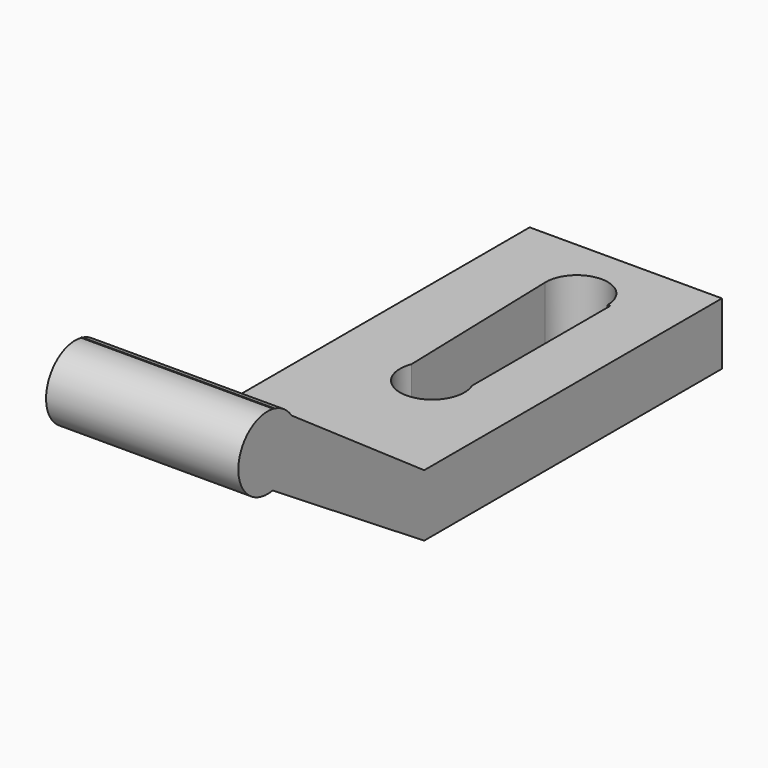
from build123d import *

# Parameters (mm, degrees)
F1_DEPTH = 62
F2_R     = 11.7474696308
F3_DEPTH = 62
F5_DEPTH = 62
F6_R     = 10.330572445
F7_DEPTH = 62


with BuildPart() as f1:
    # F0 (on Right) → F1 (new body)
    with BuildSketch(Plane.YZ):
        Polygon((72.0315793902, 5.5999404844), (-47.9684206098, 5.5999404844), (-47.9684206098, -14.4000595156), (72.0315793902, -14.4000595156), (72.0315793902, -4.4000595156), align=None)
        Polygon((-47.9684206098, -14.4000595156), (-47.9684206098, 5.5999404844), (-108.6771392604, 47.9136673329), (-116.9353204182, 29.6982221294), align=None)
    extrude(amount=F1_DEPTH)

    # F2 (on Right) → F3 (join)
    with BuildSketch(Plane.YZ):
        with Locations((-111.1419275403, 36.2391285598)):
            Circle(F2_R)
    extrude(amount=F3_DEPTH)

    # F4 (on face) → F5 (cut)
    with BuildSketch(Plane.XY.offset(5.5999404844)):
        with BuildLine():
            ThreePointArc((21.8113110218, 51.0349926195), (31.9204424494, 41.3457998855), (41.7515892409, 51.316935569))
            ThreePointArc((41.7515892409, 51.316935569), (31.6384713179, 61.2880712526), (21.8113110218, 51.0349926195))
        make_face()
        with BuildLine():
            Line((42.6100902259, 51.316935569), (41.7515892409, 51.316935569))
            ThreePointArc((41.7515892409, 51.316935569), (31.9204424494, 41.3457998855), (21.8113110218, 51.0349926195))
            Line((21.8113110218, 51.0349926195), (23.3906661796, -4.8034051943))
            ThreePointArc((23.3906661796, -4.8034051943), (32.9119310697, 1.8000949809), (42.6100902259, -4.540757379))
            Line((42.6100902259, -4.540757379), (42.6100902259, 51.316935569))
        make_face()
        with BuildLine():
            ThreePointArc((43.4248242139, -8.5701132193), (43.2191003354, -6.5146631494), (42.6100902259, -4.540757379))
            Line((42.6100902259, -4.540757379), (42.6100902259, -8.5701132193))
            Line((42.6100902259, -8.5701132193), (23.4972052276, -8.5701132193))
            Line((23.4972052276, -8.5701132193), (23.3906661796, -4.8034051943))
            ThreePointArc((23.3906661796, -4.8034051943), (31.1372951092, -18.7627033893), (43.4248242139, -8.5701132193))
        make_face()
        with BuildLine():
            Line((42.6100902259, -8.5701132193), (42.6100902259, -4.540757379))
            ThreePointArc((42.6100902259, -4.540757379), (32.9119310697, 1.8000949809), (23.3906661796, -4.8034051943))
            Line((23.3906661796, -4.8034051943), (23.4972052276, -8.5701132193))
            Line((23.4972052276, -8.5701132193), (42.6100902259, -8.5701132193))
        make_face()
    extrude(amount=-F5_DEPTH, mode=Mode.SUBTRACT)

    # F6 (on face) → F7 (cut)
    with BuildSketch(Plane(origin=(0, -13.0569639472, -18.7332010139), x_dir=(1, 0, 0), z_dir=(0, 0.5718071196, 0.8203880899))):
        with Locations((31, -93.1249111891)):
            Circle(F6_R)
    extrude(amount=-F7_DEPTH, mode=Mode.SUBTRACT)


solid = f1.part
